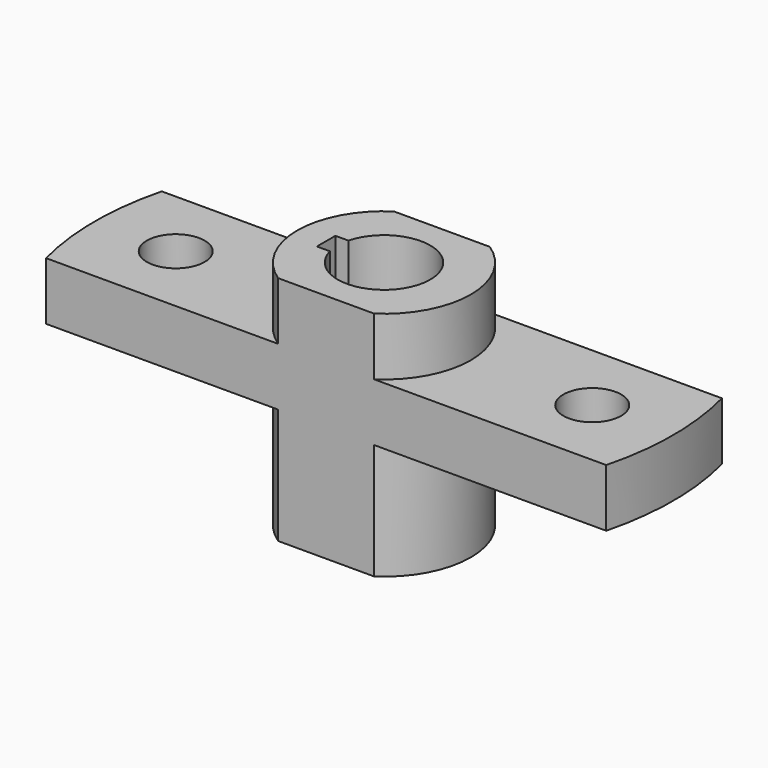
from build123d import *

# Parameters (mm, degrees)
F1_DEPTH      = 10
F1_DEPTH_BACK = 30
F0_R          = 5
F2_DEPTH      = 10


with BuildPart() as f1:
    # F0 (on Top) → F1 (new body, two sides)
    with BuildSketch(Plane.XY) as f1_sk:
        with BuildLine():
            Line((-1.980271, 30.859467), (-18.563395, 30.859467))
            ThreePointArc((-18.563395, 30.859467), (-25.271833, 18.359467), (-18.563395, 5.859467))
            Line((-18.563395, 5.859467), (-1.980271, 5.859467))
            ThreePointArc((-1.980271, 5.859467), (4.728167, 18.359467), (-1.980271, 30.859467))
        make_face()
        with BuildLine():
            ThreePointArc((-18.0178, 20.359467), (-2.271833, 18.359467), (-18.0178, 16.359467))
            Line((-18.0178, 16.359467), (-20.271833, 16.359467))
            Line((-20.271833, 16.359467), (-20.271833, 20.359467))
            Line((-20.271833, 20.359467), (-18.0178, 20.359467))
        make_face(mode=Mode.SUBTRACT)
    extrude(amount=F1_DEPTH)
    extrude(f1_sk.sketch, amount=-F1_DEPTH_BACK)

    # F0 (on Top) → F2 (join)
    with BuildSketch(Plane.XY):
        with BuildLine():
            Line((-18.563395, 30.859467), (-58.684125, 30.859467))
            ThreePointArc((-58.684125, 30.859467), (-60.271833, 18.359467), (-58.684125, 5.859467))
            Line((-58.684125, 5.859467), (-18.563395, 5.859467))
            ThreePointArc((-18.563395, 5.859467), (-25.271833, 18.359467), (-18.563395, 30.859467))
        make_face()
        with Locations((-46.271833, 18.359467)):
            Circle(F0_R, mode=Mode.SUBTRACT)
        with BuildLine():
            Line((38.140459, 30.859467), (-1.980271, 30.859467))
            ThreePointArc((-1.980271, 30.859467), (4.728167, 18.359467), (-1.980271, 5.859467))
            Line((-1.980271, 5.859467), (38.140459, 5.859467))
            ThreePointArc((38.140459, 5.859467), (39.728167, 18.359467), (38.140459, 30.859467))
        make_face()
        with Locations((25.728167, 18.359467)):
            Circle(F0_R, mode=Mode.SUBTRACT)
    extrude(amount=-F2_DEPTH)


solid = f1.part
